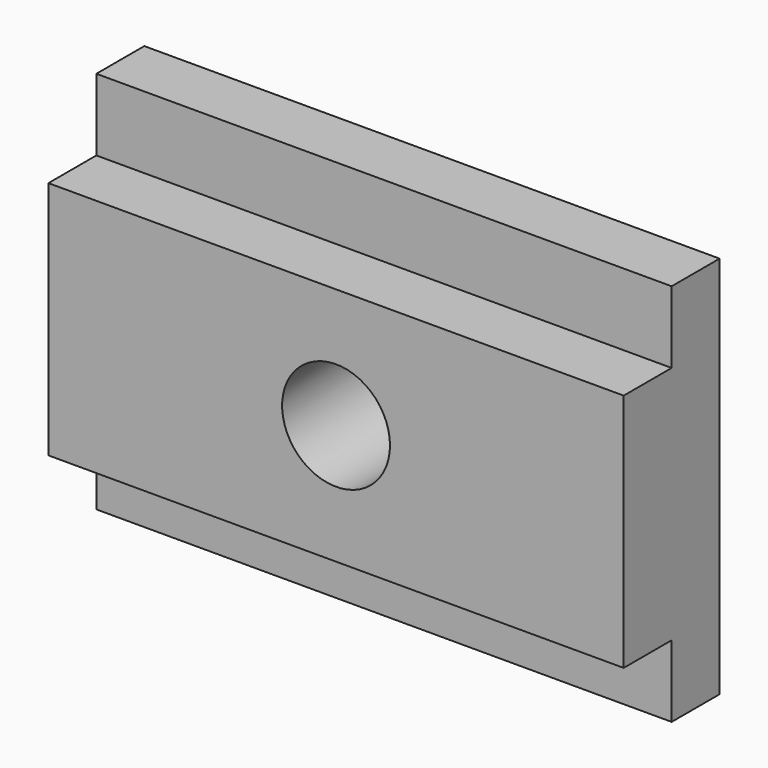
from build123d import *

# Parameters (mm, degrees)
F1_DEPTH = 152.4
F2_R     = 14.2875
F3_DEPTH = 35.795502


with BuildPart() as f1:
    # F0 (on Right) → F1 (new body)
    with BuildSketch(Plane.YZ):
        Polygon((35.794502, -27.539048), (35.794502, 74.060952), (19.919502, 74.060952), (19.919502, 55.010952), (4.044502, 55.010952), (4.044502, -8.489048), (19.919502, -8.489048), (19.919502, -27.539048), align=None)
    extrude(amount=F1_DEPTH)

    # F2 (on Front) → F3 (cut, through all)
    with BuildSketch(Plane.XZ):
        with Locations((76.2, 23.260952)):
            Circle(F2_R)
    extrude(amount=-F3_DEPTH, mode=Mode.SUBTRACT)


solid = f1.part
